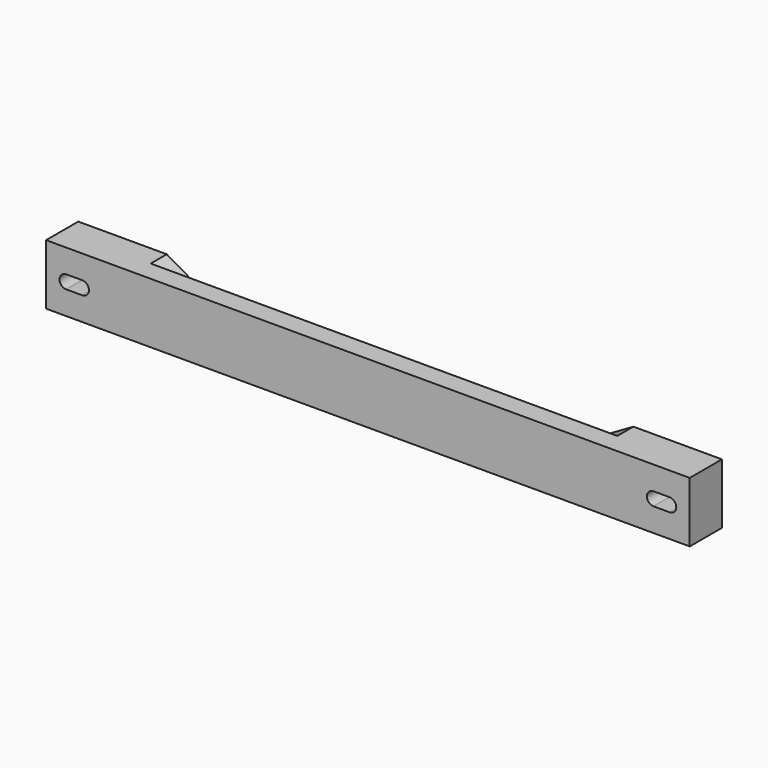
from build123d import *

# Parameters (mm, degrees)
F0_W     = 160
F0_H     = 15
F1_DEPTH = 10
F3_DEPTH = 5
F6_DEPTH = 3
F7_DEPTH = 10.001


with BuildPart() as f1:
    # F0 (on Front) → F1 (new body)
    with BuildSketch(Plane.XZ):
        Rectangle(F0_W, F0_H)
    extrude(amount=-F1_DEPTH)

    # F2 (on face) → F3 (cut)
    with BuildSketch(Plane(origin=(0, 10, 0), x_dir=(-1, 0, 0), z_dir=(0, 1, 0))):
        Polygon((58, 7.5), (-58, 7.5), (-49.339746, 2.5), (49.339746, 2.5), align=None)
        Polygon((-49.339746, -2.5), (-58, -7.5), (58, -7.5), (49.339746, -2.5), align=None)
    extrude(amount=-F3_DEPTH, mode=Mode.SUBTRACT)

    # F5 (on face) → F6 (cut)
    with BuildSketch(Plane(origin=(0, 10, 0), x_dir=(-1, 0, 0), z_dir=(0, 1, 0))):
        with BuildLine():
            ThreePointArc((-75, 3.5), (-78.5, 0), (-75, -3.5))
            Line((-75, -3.5), (-71, -3.5))
            ThreePointArc((-71, -3.5), (-67.5, 0), (-71, 3.5))
            Line((-71, 3.5), (-75, 3.5))
        make_face()
        with BuildLine():
            ThreePointArc((75, -3.5), (78.5, 0), (75, 3.5))
            Line((75, 3.5), (71, 3.5))
            ThreePointArc((71, 3.5), (67.5, 0), (71, -3.5))
            Line((71, -3.5), (75, -3.5))
        make_face()
    extrude(amount=-F6_DEPTH, mode=Mode.SUBTRACT)

    # F4 (on face) → F7 (cut, through all)
    with BuildSketch(Plane(origin=(0, 10, 0), x_dir=(-1, 0, 0), z_dir=(0, 1, 0))):
        with BuildLine():
            ThreePointArc((-75, 1.65), (-76.65, 0), (-75, -1.65))
            Line((-75, -1.65), (-71, -1.65))
            ThreePointArc((-71, -1.65), (-69.35, 0), (-71, 1.65))
            Line((-71, 1.65), (-75, 1.65))
        make_face()
        with BuildLine():
            ThreePointArc((75, -1.65), (76.65, 0), (75, 1.65))
            Line((75, 1.65), (71, 1.65))
            ThreePointArc((71, 1.65), (69.35, 0), (71, -1.65))
            Line((71, -1.65), (75, -1.65))
        make_face()
    extrude(amount=-F7_DEPTH, mode=Mode.SUBTRACT)


solid = f1.part
